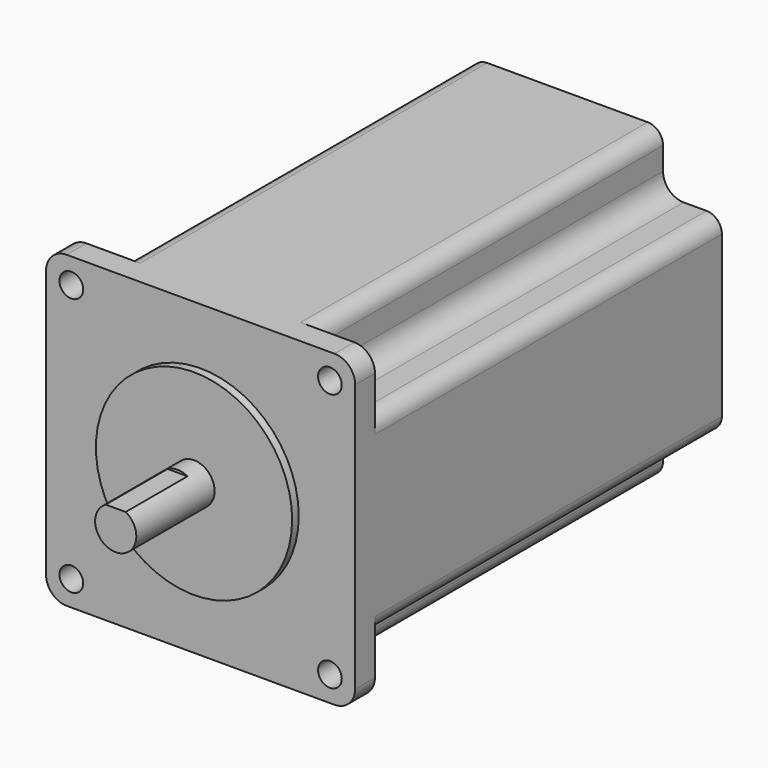
from build123d import *

# Parameters (mm, degrees)
F0_W      = 60
F0_H      = 60
F0_R      = 2.3
F0_R_2    = 19.05
F0_R_3    = 4
F1_DEPTH  = 4.8
F2_DEPTH  = 1.6
F3_DEPTH  = 20.6
F4_R      = 4
F5_W      = 15
F5_H      = 0.5
F6_DEPTH  = 60.001
F7_W      = 37.14
F7_H      = 11.43
F7_H_2    = 37.14
F7_W_2    = 11.43
F8_DEPTH  = 89
F9_R      = 4
F10_R     = 3
F11_R     = 3.25
F12_DEPTH = 14


with BuildPart() as f1:
    # F0 (on Front) → F1 (new body)
    with BuildSketch(Plane.XZ):
        Rectangle(F0_W, F0_H)
        with Locations((-25.1, -25.1)):
            Circle(F0_R, mode=Mode.SUBTRACT)
        with Locations((25.1, -25.1)):
            Circle(F0_R, mode=Mode.SUBTRACT)
        with Locations((-25.1, 25.1)):
            Circle(F0_R, mode=Mode.SUBTRACT)
        Circle(F0_R_2, mode=Mode.SUBTRACT)
        with Locations((25.1, 25.1)):
            Circle(F0_R, mode=Mode.SUBTRACT)
        Circle(F0_R_2)
        Circle(F0_R_3, mode=Mode.SUBTRACT)
        Circle(F0_R_3)
    extrude(amount=-F1_DEPTH)

    # F0 (on Front) → F2 (join)
    with BuildSketch(Plane.XZ):
        Circle(F0_R_2)
        Circle(F0_R_3, mode=Mode.SUBTRACT)
    extrude(amount=F2_DEPTH)

    # F0 (on Front) → F3 (join)
    with BuildSketch(Plane.XZ):
        Circle(F0_R_3)
    extrude(amount=F3_DEPTH)

    # F4
    f4_edges = [f1.edges().sort_by_distance(p)[0] for p in [
        (-30, 2.4, 30),
        (30, 2.4, 30),
        (30, 2.4, -30),
        (-30, 2.4, -30),
    ]]
    fillet(f4_edges, radius=F4_R)

    # F5 (on face) → F6 (cut, through all)
    with BuildSketch(Plane(origin=(-30, 0, 0), x_dir=(0, -1, 0), z_dir=(-1, 0, 0))):
        with Locations((13.1, 3.75)):
            Rectangle(F5_W, F5_H)
    extrude(amount=-F6_DEPTH, mode=Mode.SUBTRACT)

    # F7 (on Front) → F8 (join)
    with BuildSketch(Plane.XZ):
        with Locations((0, 24.285)):
            Rectangle(F7_W, F7_H)
        Rectangle(F7_W, F7_H_2)
        with Locations((-24.285, 0)):
            Rectangle(F7_W_2, F7_H_2)
        with Locations((24.285, 0)):
            Rectangle(F7_W_2, F7_H_2)
        with Locations((0, -24.285)):
            Rectangle(F7_W, F7_H)
    extrude(amount=-F8_DEPTH)

    # F9
    f9_edges = [f1.edges().sort_by_distance(p)[0] for p in [
        (18.57, 46.9, 18.57),
        (-18.57, 46.9, 18.57),
        (-18.57, 46.9, -18.57),
        (18.57, 46.9, -18.57),
    ]]
    fillet(f9_edges, radius=F9_R)

    # F10
    f10_edges = [f1.edges().sort_by_distance(p)[0] for p in [
        (18.57, 46.9, 30),
        (30, 46.9, 18.57),
        (30, 46.9, -18.57),
        (18.57, 46.9, -30),
        (-18.57, 46.9, -30),
        (-30, 46.9, -18.57),
        (-30, 46.9, 18.57),
        (-18.57, 46.9, 30),
    ]]
    fillet(f10_edges, radius=F10_R)

    # F11 (on face) → F12 (join)
    with BuildSketch(Plane(origin=(0, 89, 0), x_dir=(-1, 0, 0), z_dir=(0, 1, 0))):
        Circle(F11_R)
    extrude(amount=F12_DEPTH)


solid = f1.part
